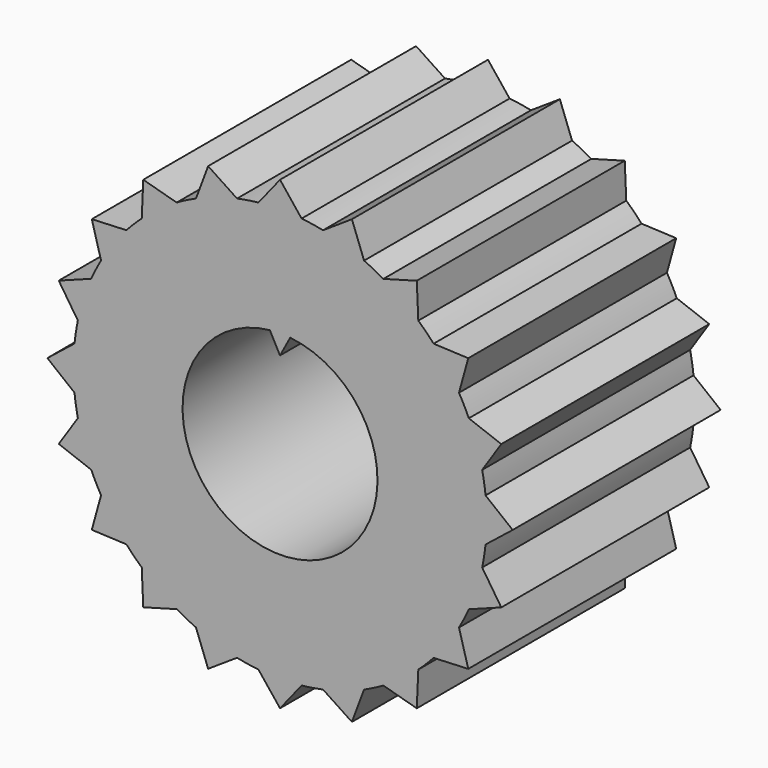
from build123d import *

# Parameters (mm, degrees)
F0_R     = 7.95
F0_R_2   = 3.75
F1_DEPTH = 10
F3_DEPTH = 10
F4_COUNT = 20
F6_DEPTH = 10


with BuildPart() as f1:
    # F0 (on Front) → F1 (new body)
    with BuildSketch(Plane.XZ):
        Circle(F0_R)
        Circle(F0_R_2, mode=Mode.SUBTRACT)
    extrude(amount=F1_DEPTH)

    # F2 (on face) → F3 (join, through all)
    with BuildSketch(Plane.XZ.offset(10)):
        with BuildLine():
            ThreePointArc((-0.831001, 7.906449), (0, 7.95), (0.831001, 7.906449))
            Line((0.831001, 7.906449), (0, 8.95))
            Line((0, 8.95), (-0.831001, 7.906449))
        make_face()
    extrude(amount=-F3_DEPTH)

    # F4: F1 ×20 about axis
    f4_axis = Axis((0, 0, 0), (0, 1, 0))


with BuildPart() as f1_1:
    add(f1.part)
    for i in range(1, F4_COUNT):
        add(f1.part.rotate(f4_axis, i * 360 / F4_COUNT))

    # F5 (on face) → F6 (join, through all)
    with BuildSketch(Plane(origin=(0, 0, 0), x_dir=(-1, 0, 0), z_dir=(0, 1, 0))):
        with BuildLine():
            Line((-0.391982, 3.729457), (0, 3))
            Line((0, 3), (0.391982, 3.729457))
            ThreePointArc((0.391982, 3.729457), (0, 3.75), (-0.391982, 3.729457))
        make_face()
        with BuildLine():
            Line((0, 4.064701), (-0.391982, 3.729457))
            ThreePointArc((-0.391982, 3.729457), (0, 3.75), (0.391982, 3.729457))
            Line((0.391982, 3.729457), (0, 4.064701))
        make_face()
    extrude(amount=-F6_DEPTH)


solid = f1_1.part
